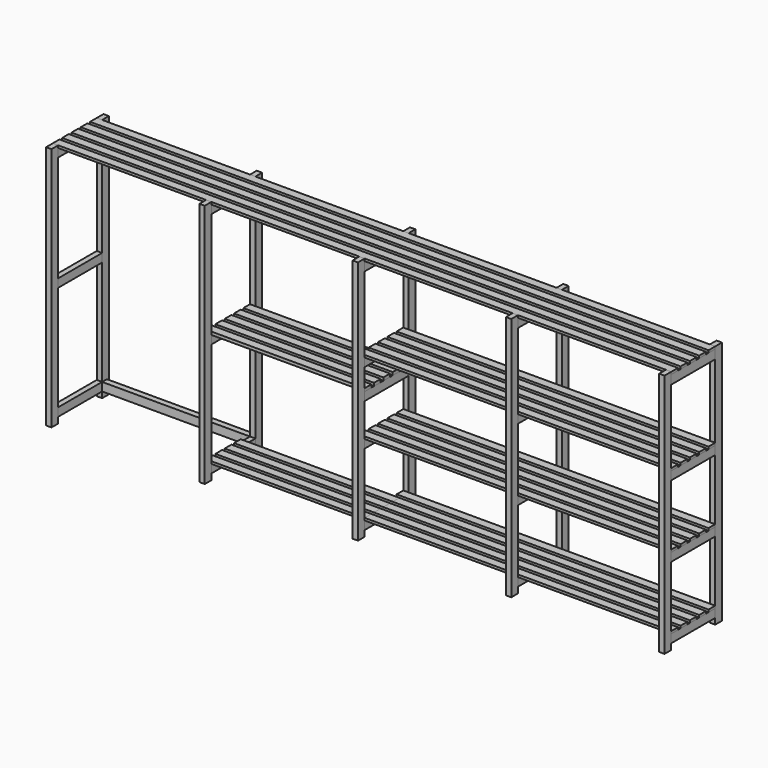
from build123d import *

# Parameters (mm, degrees)
F0_W      = 45
F0_H      = 70
F1_DEPTH  = 2050
F2_W      = 45
F2_H      = 70
F2_H_2    = 75
F3_DEPTH  = 460
F4_W      = 70
F4_H      = 20
F5_DEPTH  = 5175
F6_W      = 70
F6_H      = 20
F7_DEPTH  = 2610
F8_W      = 70
F8_H      = 25
F8_H_2    = 20
F9_DEPTH  = 1327.5
F10_W     = 50
F10_H     = 70
F11_DEPTH = 1237.5


with BuildPart() as f1:
    # F0 (on Top) → F1 (new body)
    with BuildSketch(Plane.XY):
        with Locations((22.5, -35)):
            Rectangle(F0_W, F0_H)
        with Locations((22.5, -565)):
            Rectangle(F0_W, F0_H)
        with Locations((1305, -565)):
            Rectangle(F0_W, F0_H)
        with Locations((1305, -35)):
            Rectangle(F0_W, F0_H)
        with Locations((2587.5, -565)):
            Rectangle(F0_W, F0_H)
        with Locations((2587.5, -35)):
            Rectangle(F0_W, F0_H)
        with Locations((3870, -565)):
            Rectangle(F0_W, F0_H)
        with Locations((3870, -35)):
            Rectangle(F0_W, F0_H)
        with Locations((5152.5, -565)):
            Rectangle(F0_W, F0_H)
        with Locations((5152.5, -35)):
            Rectangle(F0_W, F0_H)
    extrude(amount=F1_DEPTH)


with BuildPart() as f3:
    # F2 (on face) → F3 (new body, through all)
    with BuildSketch(Plane.XZ.offset(70)):
        with Locations((22.5, 1995)):
            Rectangle(F2_W, F2_H)
        with Locations((1305, 1995)):
            Rectangle(F2_W, F2_H)
        with Locations((2587.5, 1992.5)):
            Rectangle(F2_W, F2_H_2)
        with Locations((3870, 1992.5)):
            Rectangle(F2_W, F2_H_2)
        with Locations((5152.5, 1992.5)):
            Rectangle(F2_W, F2_H_2)
        with Locations((22.5, 85)):
            Rectangle(F2_W, F2_H)
        with Locations((1305, 85)):
            Rectangle(F2_W, F2_H)
        with Locations((2587.5, 85)):
            Rectangle(F2_W, F2_H)
        with Locations((3870, 85)):
            Rectangle(F2_W, F2_H)
        with Locations((5152.5, 85)):
            Rectangle(F2_W, F2_H)
        with Locations((5152.5, 685)):
            Rectangle(F2_W, F2_H)
        with Locations((5152.5, 1285)):
            Rectangle(F2_W, F2_H)
        with Locations((3870, 685)):
            Rectangle(F2_W, F2_H)
        with Locations((3870, 1285)):
            Rectangle(F2_W, F2_H)
        with Locations((2587.5, 1285)):
            Rectangle(F2_W, F2_H)
        with Locations((2587.5, 685)):
            Rectangle(F2_W, F2_H)
        with Locations((22.5, 1035)):
            Rectangle(F2_W, F2_H)
        with Locations((1305, 1035)):
            Rectangle(F2_W, F2_H)
        with Locations((2587.5, 1035)):
            Rectangle(F2_W, F2_H)
    extrude(amount=F3_DEPTH)


with BuildPart() as f5:
    # F4 (on face) → F5 (new body, through all)
    with BuildSketch(Plane(origin=(0, 0, 0), x_dir=(0, -1, 0), z_dir=(-1, 0, 0))):
        with Locations((495, 2040)):
            Rectangle(F4_W, F4_H)
        with Locations((105, 2040)):
            Rectangle(F4_W, F4_H)
        with Locations((202.5, 2040)):
            Rectangle(F4_W, F4_H)
        with Locations((300, 2040)):
            Rectangle(F4_W, F4_H)
        with Locations((397.5, 2040)):
            Rectangle(F4_W, F4_H)
    extrude(amount=-F5_DEPTH)


with BuildPart() as f7:
    # F6 (on face) → F7 (new body, through all)
    with BuildSketch(Plane.YZ.offset(5175)):
        with Locations((-495, 1330)):
            Rectangle(F6_W, F6_H)
        with Locations((-300, 1330)):
            Rectangle(F6_W, F6_H)
        with Locations((-202.5, 1330)):
            Rectangle(F6_W, F6_H)
        with Locations((-105, 1330)):
            Rectangle(F6_W, F6_H)
        with Locations((-300, 730)):
            Rectangle(F6_W, F6_H)
        with Locations((-397.5, 730)):
            Rectangle(F6_W, F6_H)
        with Locations((-495, 730)):
            Rectangle(F6_W, F6_H)
        with Locations((-202.5, 730)):
            Rectangle(F6_W, F6_H)
        with Locations((-300, 130)):
            Rectangle(F6_W, F6_H)
        with Locations((-397.5, 130)):
            Rectangle(F6_W, F6_H)
        with Locations((-495, 130)):
            Rectangle(F6_W, F6_H)
        with Locations((-202.5, 130)):
            Rectangle(F6_W, F6_H)
        with Locations((-397.5, 1330)):
            Rectangle(F6_W, F6_H)
        with Locations((-105, 730)):
            Rectangle(F6_W, F6_H)
        with Locations((-105, 130)):
            Rectangle(F6_W, F6_H)
    extrude(amount=-F7_DEPTH)


with BuildPart() as f9:
    # F8 (on face) → F9 (new body, through all)
    with BuildSketch(Plane.YZ.offset(2610)):
        with Locations((-495, 1082.5)):
            Rectangle(F8_W, F8_H)
        with Locations((-300, 1082.5)):
            Rectangle(F8_W, F8_H)
        with Locations((-202.5, 1082.5)):
            Rectangle(F8_W, F8_H)
        with Locations((-105, 1082.5)):
            Rectangle(F8_W, F8_H)
        with Locations((-495, 130)):
            Rectangle(F8_W, F8_H_2)
        with Locations((-397.5, 130)):
            Rectangle(F8_W, F8_H_2)
        with Locations((-300, 130)):
            Rectangle(F8_W, F8_H_2)
        with Locations((-202.5, 130)):
            Rectangle(F8_W, F8_H_2)
        with Locations((-397.5, 1082.5)):
            Rectangle(F8_W, F8_H)
    extrude(amount=-F9_DEPTH)


with BuildPart() as f11:
    # F10 (on face) → F11 (new body, through all)
    with BuildSketch(Plane(origin=(1282.5, 0, 0), x_dir=(0, -1, 0), z_dir=(-1, 0, 0))):
        with Locations((45, 85)):
            Rectangle(F10_W, F10_H)
    extrude(amount=F11_DEPTH)


solid = Compound([f1.part, f3.part, f5.part, f7.part, f9.part, f11.part])
